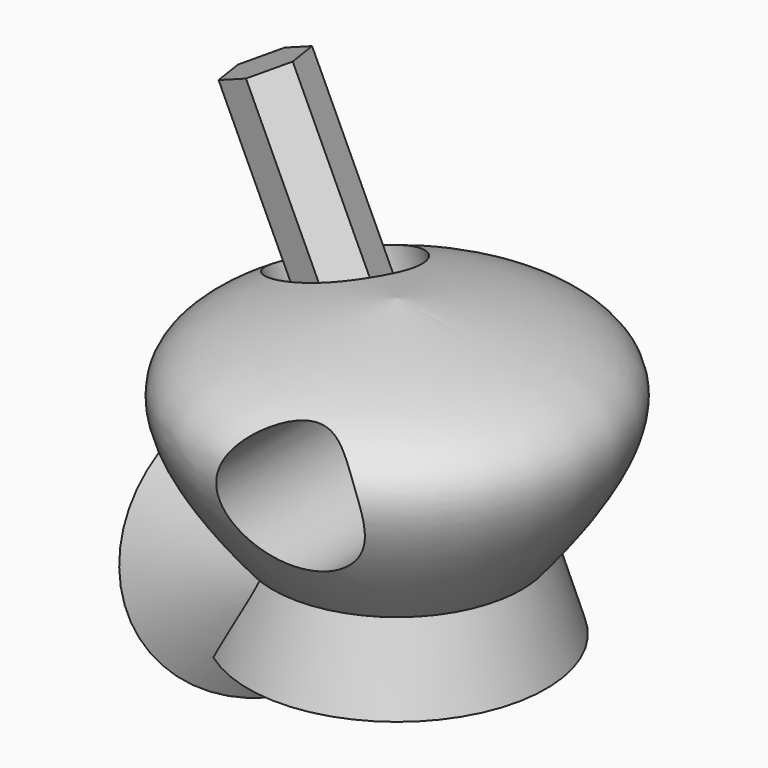
from build123d import *

# Parameters (mm, degrees)
F6_R          = 28.2815558262
F7_DEPTH      = 134
F7_DEPTH_BACK = 41
F11_R         = 28.7208654688
F12_DEPTH     = 68
F14_DEPTH     = 114


with BuildPart() as f1:
    # F0 (on Front) → F1 (revolve)
    with BuildSketch(Plane.XZ):
        with BuildLine():
            add(Edge.make_bspline(
                [(0, 93.0736511946), (40.3450018431, 87.2845091525), (132.5680686127, 74.0513350616), (47.726029558, -14.9911441163), (0, -65.0800392032)],
                knots=[0, 0, 0, 0, 0.4374719173, 1, 1, 1, 1], degree=3))
            Line((0, 93.0736511946), (0, -65.0800392032))
        make_face()
    revolve(axis=Axis((0, 0, 13.9968059957), (0, 0, -1)))

    # F2 (on Right) → F3 (revolve)
    with BuildSketch(Plane.YZ):
        Polygon((0, 27.1453838795), (0, -69.3715363741), (66.7862519622, -39.4972525537), (54.7216460109, 0), align=None)
    revolve(axis=Axis((0, 0, -21.1130762473), (0, 0, 1)))

    # F4 (on Top) → F5 (revolve)
    with BuildSketch(Plane.XY):
        Polygon((-49.454215914, -12.6298470423), (0, -39.4112095237), (0, 33.6288698018), (-31.1942081898, 14.7601831704), align=None)
    revolve(axis=Axis((-24.727107957, -26.020528283, 0), (0.8793391566, -0.4761960181, 0)))

    # F6 (on Front) → F7 (cut, two sides)
    with BuildSketch(Plane.XZ) as f7_sk:
        with Locations((16.7724017654, 49.1839607516)):
            Circle(F6_R)
    extrude(amount=F7_DEPTH, mode=Mode.SUBTRACT)
    extrude(f7_sk.sketch, amount=-F7_DEPTH_BACK, mode=Mode.SUBTRACT)

    # F11 (on line) → F12 (cut)
    with BuildSketch(Plane(origin=(-51.7079999105, 0, 110.8881636538), x_dir=(0.906307787, 0, 0.4226182617), z_dir=(0.4226182617, 0, -0.906307787))):
        with Locations((-6.1226980752, -26.6466047069)):
            Circle(F11_R)
    extrude(amount=F12_DEPTH, mode=Mode.SUBTRACT)

    # F13 (on face) → F14 (join)
    with BuildSketch(Plane(origin=(-22.9699581122, 0, 49.2592341353), x_dir=(0.906307787, 0, 0.4226182617), z_dir=(-0.4226182617, 0, 0.906307787))):
        Polygon((5.126014983, 24.5989118996), (0, 41.250795126), (-16.9839613864, 45.1374775436), (-28.8419077897, 32.372276735), (-23.7158928066, 15.7203935087), (-6.7319314203, 11.833711091), align=None)
    extrude(amount=F14_DEPTH)


solid = f1.part
